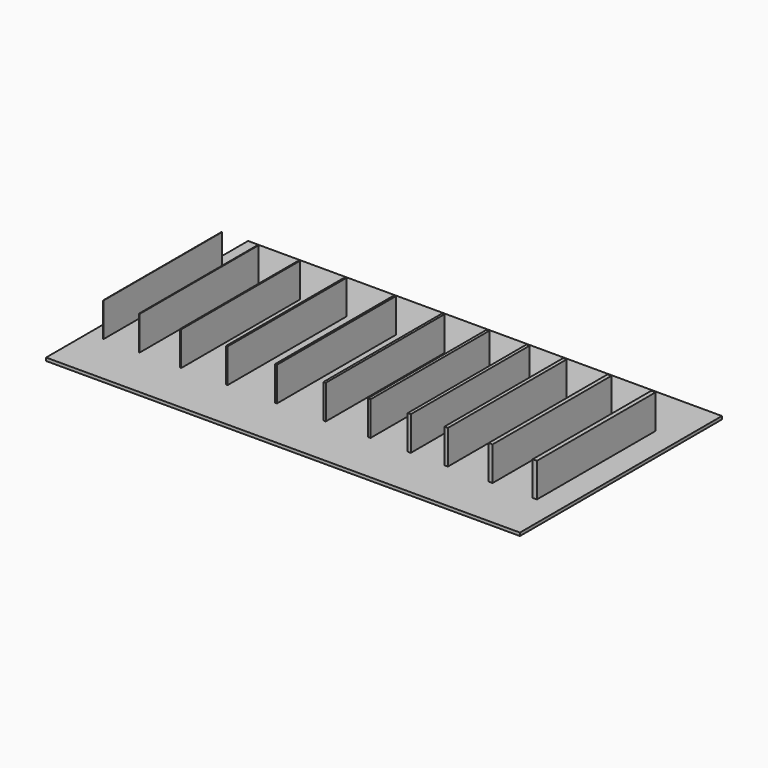
from build123d import *

# Parameters (mm, degrees)
F0_W     = 121.62432
F0_H     = 64.797744
F1_DEPTH = 0.79375
F2_W     = 0.1
F2_H     = 38.1
F2_W_2   = 0.2
F2_W_3   = 0.3
F2_W_4   = 0.4
F2_W_5   = 0.5
F2_W_6   = 0.6
F2_W_7   = 0.7
F2_W_8   = 0.8
F2_W_9   = 0.9
F2_W_10  = 1
F2_W_11  = 1.1
F3_DEPTH = 9.525


with BuildPart() as f1:
    # F0 (on Top) → F1 (new body)
    with BuildSketch(Plane.XY):
        Rectangle(F0_W, F0_H)
    extrude(amount=F1_DEPTH)

    # F2 (on Top) → F3 (join)
    with BuildSketch(Plane.XY):
        with Locations((-56.856737, 0)):
            Rectangle(F2_W, F2_H)
        with Locations((-47.602495, 0)):
            Rectangle(F2_W_2, F2_H)
        with Locations((-36.957427, 0)):
            Rectangle(F2_W_3, F2_H)
        with Locations((-25.1163, 0)):
            Rectangle(F2_W_4, F2_H)
        with Locations((-12.470082, 0)):
            Rectangle(F2_W_5, F2_H)
        Rectangle(F2_W_6, F2_H)
        with Locations((11.431698, 0)):
            Rectangle(F2_W_7, F2_H)
        with Locations((21.726145, 0)):
            Rectangle(F2_W_8, F2_H)
        with Locations((31.196605, 0)):
            Rectangle(F2_W_9, F2_H)
        with Locations((42.607214, 0)):
            Rectangle(F2_W_10, F2_H)
        with Locations((53.941889, 0)):
            Rectangle(F2_W_11, F2_H)
    extrude(amount=F3_DEPTH)


solid = f1.part
